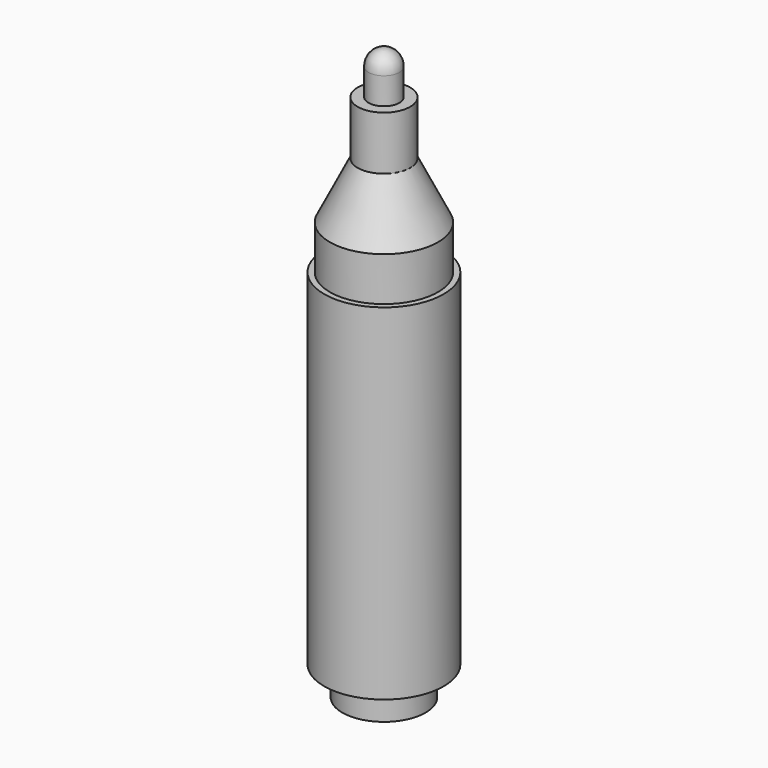
from build123d import *


with BuildPart() as f1:
    # F0 (on Front) → F1 (revolve)
    with BuildSketch(Plane.XZ):
        with BuildLine():
            Line((-7.89949, 0), (0, 0))
            Line((0, 0), (0, 108.452888))
            ThreePointArc((0, 108.452888), (-2.125524, 107.544031), (-2.936851, 105.379402))
            Line((-2.936851, 105.379402), (-2.936851, 100.299052))
            Line((-2.936851, 100.299052), (-4.981732, 100.299052))
            Line((-4.981732, 100.299052), (-4.981732, 90.090476))
            Line((-4.981732, 90.090476), (-10.267681, 79.391703))
            Line((-10.267681, 79.391703), (-10.267681, 71.054474))
            Line((-10.267681, 71.054474), (-11.336341, 71.054474))
            Line((-11.336341, 71.054474), (-11.336341, 5.522095))
            Line((-11.336341, 5.522095), (-7.89949, 5.522095))
            Line((-7.89949, 5.522095), (-7.89949, 0))
        make_face()
    revolve(axis=Axis((0, 0, 57.030439), (0, 0, 1)))


solid = f1.part
